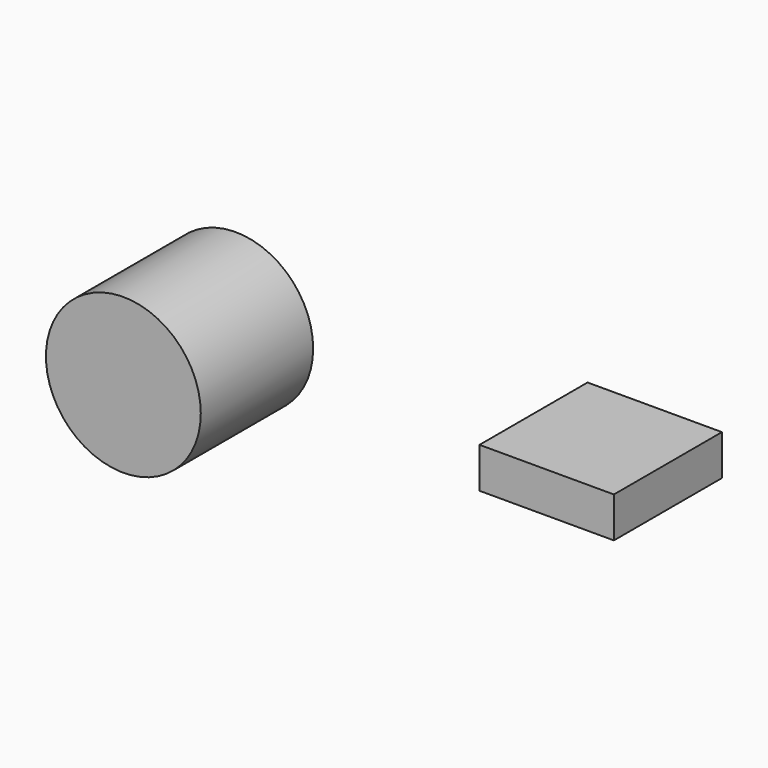
from build123d import *

# Parameters (mm, degrees)
F0_R      = 48.590936
F1_DEPTH  = 25.4
F1_FACE_R = 48.590936
F2_DEPTH  = 62.738
F3_W      = 84.329299
F3_H      = 84.746515
F4_DEPTH  = 25.4


with BuildPart() as f1:
    # F0 (on Front) → F1 (new body)
    with BuildSketch(Plane.XZ):
        with Locations((-104.960032, 38.034886)):
            Circle(F0_R)
    extrude(amount=F1_DEPTH)

    # F1_face (on face) → F2 (join)
    with BuildSketch(Plane(origin=(-104.960032, -25.4, 38.034886), x_dir=(1, 0, 0), z_dir=(0, -1, 0))):
        Circle(F1_FACE_R)
    extrude(amount=F2_DEPTH)


with BuildPart() as f4:
    # F3 (on Top) → F4 (new body)
    with BuildSketch(Plane.XY):
        with Locations((98.095898, 32.511365)):
            Rectangle(F3_W, F3_H)
    extrude(amount=F4_DEPTH)


solid = Compound([f1.part, f4.part])
